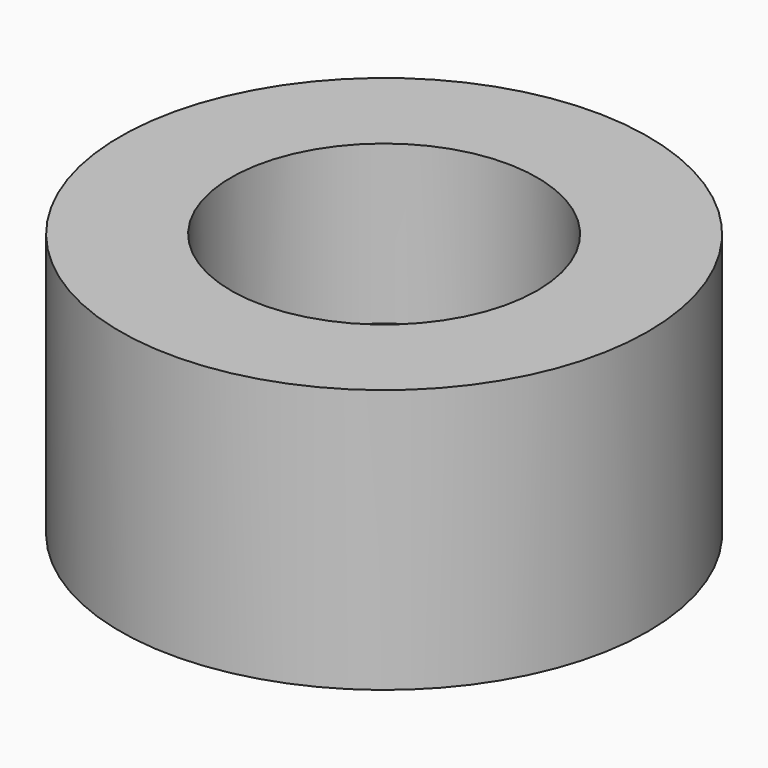
from build123d import *

# Parameters (mm, degrees)
F0_R     = 5
F1_DEPTH = 5
F2_R     = 2.9
F3_DEPTH = 3
F4_R     = 1.75
F5_DEPTH = 2.001


with BuildPart() as f1:
    # F0 (on Top) → F1 (new body)
    with BuildSketch(Plane.XY):
        Circle(F0_R)
    extrude(amount=F1_DEPTH)

    # F2 (on face) → F3 (cut)
    with BuildSketch(Plane.XY.offset(5)):
        Circle(F2_R)
    extrude(amount=-F3_DEPTH, mode=Mode.SUBTRACT)

    # F4 (on face) → F5 (cut, through all)
    with BuildSketch(Plane.XY.offset(2)):
        Circle(F4_R)
    extrude(amount=-F5_DEPTH, mode=Mode.SUBTRACT)


solid = f1.part
